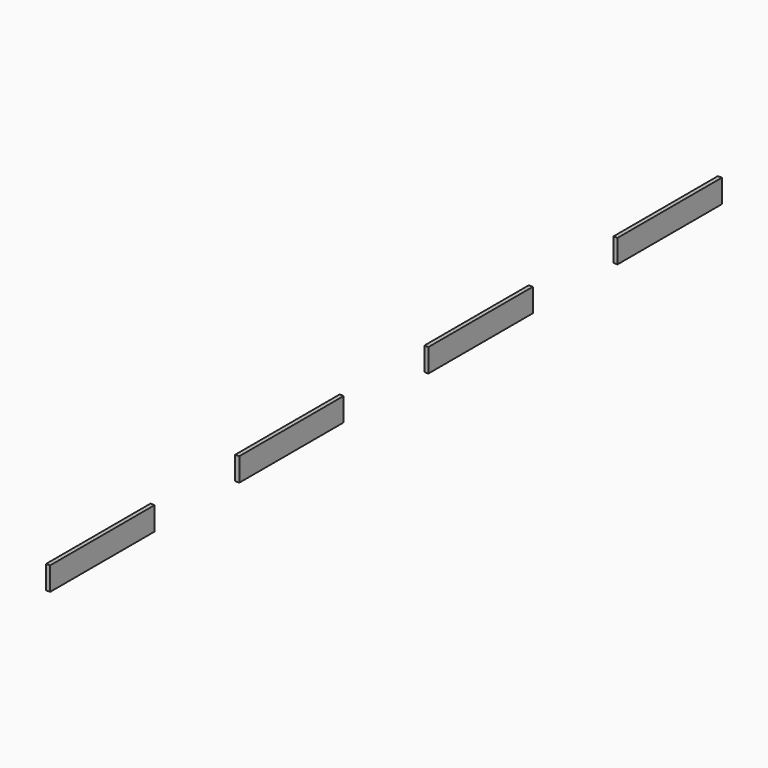
from build123d import *

# Parameters (mm, degrees)
SKETCH011_W      = 369.085714
SKETCH011_H      = 66
PAD010_DEPTH     = 11.6
ARRAY004_Y_COUNT = 4
ARRAY004_Y_PITCH = 668.571429


with BuildPart() as inner_cross_wall_pieces:
    # Sketch011 → Pad010 (new body)
    with BuildSketch(Plane.YZ):
        with Locations((0, -33)):
            Rectangle(SKETCH011_W, SKETCH011_H)
    extrude(amount=PAD010_DEPTH)


with BuildPart() as inner_cross_wall_pieces_1:
    # Body008 placement: moved
    add(inner_cross_wall_pieces.part.moved(Location((567, 0, -37))))

    # Array004 Y: Inner cross wall pieces ×4


with BuildPart() as inner_cross_wall_pieces_2:
    add(inner_cross_wall_pieces_1.part)
    with Locations(*[(0, i * ARRAY004_Y_PITCH, 0) for i in range(1, ARRAY004_Y_COUNT)]):
        add(inner_cross_wall_pieces_1.part)


with BuildPart() as inner_cross_wall_pieces_3:
    # Array004 placement: moved
    add(inner_cross_wall_pieces_2.part.moved(Location((0, -1002.857143, 0))))


with BuildPart() as part_mirroring002:
    # Part__Mirroring002: instance of Inner cross wall pieces
    add(inner_cross_wall_pieces_3.part.mirror(Plane(origin=(0, 0, 0), x_dir=(0, -1, 0), z_dir=(1, 0, 0))))


solid = part_mirroring002.part
